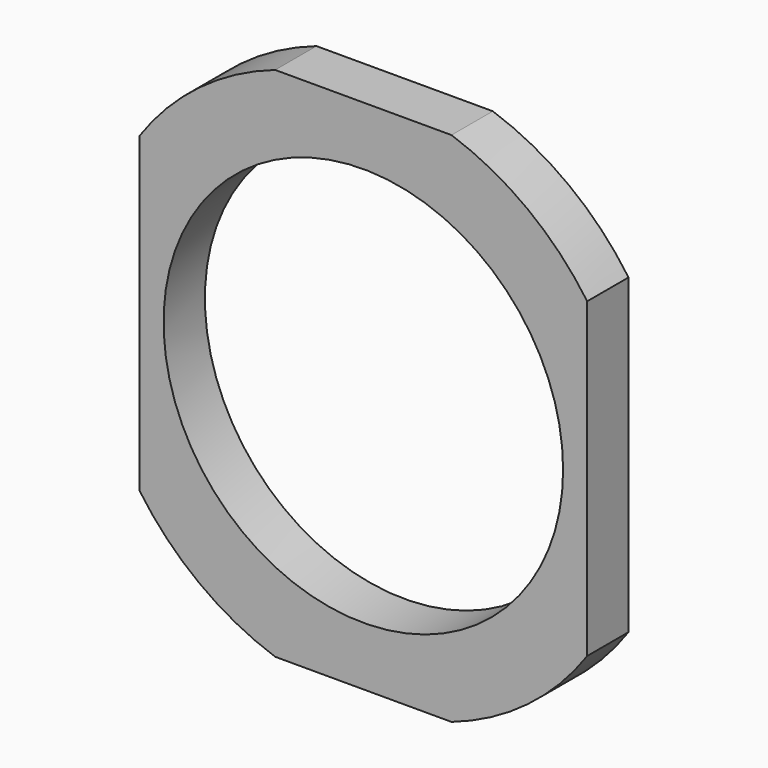
from build123d import *

# Parameters (mm, degrees)
F0_W     = 33.02
F0_H     = 38.1
F1_DEPTH = 3.81
F2_R     = 25.20878
F2_R_2   = 20.12878
F3_DEPTH = 25.4
F4_R     = 14.732
F5_DEPTH = 25.4


with BuildPart() as f1:
    # F0 (on Front) → F1 (new body)
    with BuildSketch(Plane.XZ):
        Rectangle(F0_W, F0_H)
    extrude(amount=F1_DEPTH)

    # F2 (on face) → F3 (cut)
    with BuildSketch(Plane.XZ.offset(3.81)):
        Circle(F2_R)
        Circle(F2_R_2, mode=Mode.SUBTRACT)
    extrude(amount=-F3_DEPTH, mode=Mode.SUBTRACT)

    # F4 (on face) → F5 (cut)
    with BuildSketch(Plane.XZ.offset(3.81)):
        Circle(F4_R)
    extrude(amount=-F5_DEPTH, mode=Mode.SUBTRACT)


solid = f1.part
